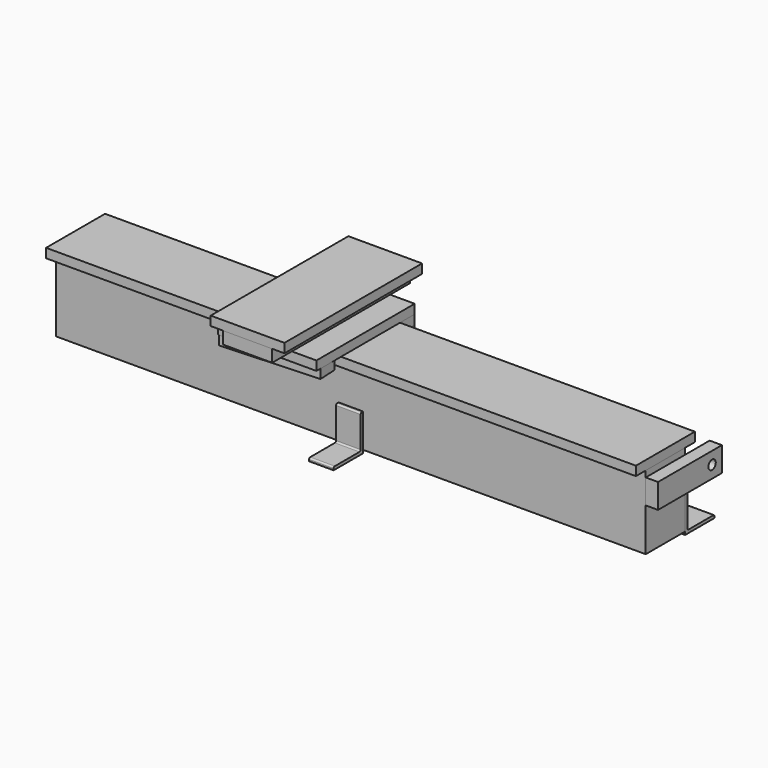
from build123d import *

# Parameters (mm, degrees)
F0_W      = 50.8
F0_H      = 76.2
F1_DEPTH  = 304.8
F2_W      = 609.6
F2_H      = 76.2
F3_DEPTH  = 9.525
F5_DEPTH  = 25.4
F8_ANGLE  = 180
F10_ANGLE = 180
F11_W     = 127
F11_H     = 9.525
F12_DEPTH = 101.6
F13_W     = 19.05
F13_H     = 9.525
F14_DEPTH = 101.6
F16_DEPTH = 9.525
F18_DEPTH = 12.7
F19_W     = 38.1
F19_H     = 9.525
F20_DEPTH = 177.8
F21_W     = 101.6
F21_H     = 19.05
F21_H_2   = 6.35
F22_DEPTH = 9.525
F23_W     = 19.05
F23_H     = 25.4
F24_DEPTH = 19.05
F25_R     = 4.445
F26_DEPTH = 19.05
F28_DEPTH = 12.7
F29_R     = 4.7625
F30_DEPTH = 12.7


with BuildPart() as f1:
    # F0 (on Right) → F1 (new body, symmetric)
    with BuildSketch(Plane.YZ):
        with Locations((0, -38.1)):
            Rectangle(F0_W, F0_H)
    extrude(amount=F1_DEPTH, both=True)


with BuildPart() as f3:
    # F2 (on face) → F3 (new body)
    with BuildSketch(Plane.XY):
        Rectangle(F2_W, F2_H)
    extrude(amount=F3_DEPTH)


with BuildPart() as f5:
    # F4 (on face) → F5 (new body)
    with BuildSketch(Plane(origin=(-304.8, 0, 0), x_dir=(0, -1, 0), z_dir=(-1, 0, 0))):
        with BuildLine():
            Line((27.051, -41.275), (25.4, -41.275))
            Line((25.4, -41.275), (25.4, -76.2))
            Line((25.4, -76.2), (25.4, -79.375))
            Line((25.4, -79.375), (63.5, -79.375))
            Line((63.5, -79.375), (63.5, -77.724))
            ThreePointArc((63.5, -77.724), (63.053631, -76.646369), (61.976, -76.2))
            Line((61.976, -76.2), (30.099, -76.2))
            ThreePointArc((30.099, -76.2), (29.021369, -75.753631), (28.575, -74.676))
            Line((28.575, -74.676), (28.575, -42.799))
            ThreePointArc((28.575, -42.799), (28.128631, -41.721369), (27.051, -41.275))
        make_face()
    extrude(amount=-F5_DEPTH)


with BuildPart() as f6_1:
    # F6: copy of F5
    add(f5.part.moved(Location((292.1, 0, 0))))


with BuildPart() as f6_1_1:
    # F8: moved
    add(f6_1.part.rotate(Axis((0, 0, 54.384444), (0, 0, 1)), F8_ANGLE))


with BuildPart() as f9_1:
    # F9: instance of F5
    add(f5.part.mirror(Plane.YZ))


with BuildPart() as f9_1_1:
    # F10: moved
    add(f9_1.part.rotate(Axis((0, 0, 54.384444), (0, 0, 1)), F10_ANGLE))


with BuildPart() as f6_1_2:
    # F10: moved
    add(f6_1_1.part.rotate(Axis((0, 0, 54.384444), (0, 0, 1)), F10_ANGLE))


with BuildPart() as f5_1:
    # F10: moved
    add(f5.part.rotate(Axis((0, 0, 54.384444), (0, 0, 1)), F10_ANGLE))


with BuildPart() as f12:
    # F11 (on Right) → F12 (new body)
    with BuildSketch(Plane.YZ):
        with Locations((-6.35, 14.2875)):
            Rectangle(F11_W, F11_H)
    extrude(amount=-F12_DEPTH)


with BuildPart() as f14:
    # F13 (on face) → F14 (new body, through all)
    with BuildSketch(Plane.YZ):
        with Locations((47.625, 4.7625)):
            Rectangle(F13_W, F13_H)
    extrude(amount=-F14_DEPTH)


with BuildPart() as f16:
    # F15 (on face) → F16 (new body)
    with BuildSketch(Plane(origin=(0, 0, 9.525), x_dir=(1, 0, 0), z_dir=(0, 0, -1))):
        Polygon((-100.603, 69.85), (-101.6, 50.826107), (-0.997, 45.553728), (0, 64.57762), align=None)
    extrude(amount=F16_DEPTH)


with BuildPart() as f18:
    # F17 (on face) → F18 (new body)
    with BuildSketch(Plane.XY.offset(19.05)):
        Polygon((-50.8, 82.55), (-76.2, 82.55), (-76.2, -95.25), (-25.4, -95.25), (-25.4, 82.55), align=None)
    extrude(amount=F18_DEPTH)


with BuildPart() as f20:
    # F19 (on face) → F20 (new body, through all)
    with BuildSketch(Plane.XZ.offset(95.25)):
        with Locations((-69.85, 36.5125)):
            Rectangle(F19_W, F19_H)
        with Locations((-31.75, 36.5125)):
            Rectangle(F19_W, F19_H)
    extrude(amount=-F20_DEPTH)


with BuildPart() as f22:
    # F21 (on face) → F22 (new body)
    with BuildSketch(Plane(origin=(0, 0, 0), x_dir=(1, 0, 0), z_dir=(0, 0, -1))):
        with Locations((-50.8, -47.625)):
            Rectangle(F21_W, F21_H)
        with Locations((-50.8, -34.925)):
            Rectangle(F21_W, F21_H_2)
    extrude(amount=F22_DEPTH)


with BuildPart() as f24:
    # F23 (on face) → F24 (new body)
    with BuildSketch(Plane(origin=(0, 0, -9.525), x_dir=(1, 0, 0), z_dir=(0, 0, -1))):
        with Locations((-50.8, -44.45)):
            Rectangle(F23_W, F23_H)
    extrude(amount=F24_DEPTH)

    # F25 (on face) → F26 (cut, through all)
    with BuildSketch(Plane.YZ.offset(-41.275)):
        with Locations((44.45, -19.05)):
            Circle(F25_R)
    extrude(amount=-F26_DEPTH, mode=Mode.SUBTRACT)


with BuildPart() as f28:
    # F27 (on face) → F28 (new body)
    with BuildSketch(Plane.YZ.offset(304.8)):
        Polygon((57.15, -6.35), (-25.4, -6.35), (-25.4, -19.05), (-25.4, -31.75), (57.15, -31.75), align=None)
    extrude(amount=F28_DEPTH)

    # F29 (on face) → F30 (cut, through all)
    with BuildSketch(Plane.YZ.offset(317.5)):
        with Locations((44.45, -19.05)):
            Circle(F29_R)
    extrude(amount=-F30_DEPTH, mode=Mode.SUBTRACT)


solid = Compound([f1.part, f3.part, f9_1_1.part, f6_1_2.part, f5_1.part, f12.part, f14.part, f16.part, f18.part, f20.part, f22.part, f24.part, f28.part])
